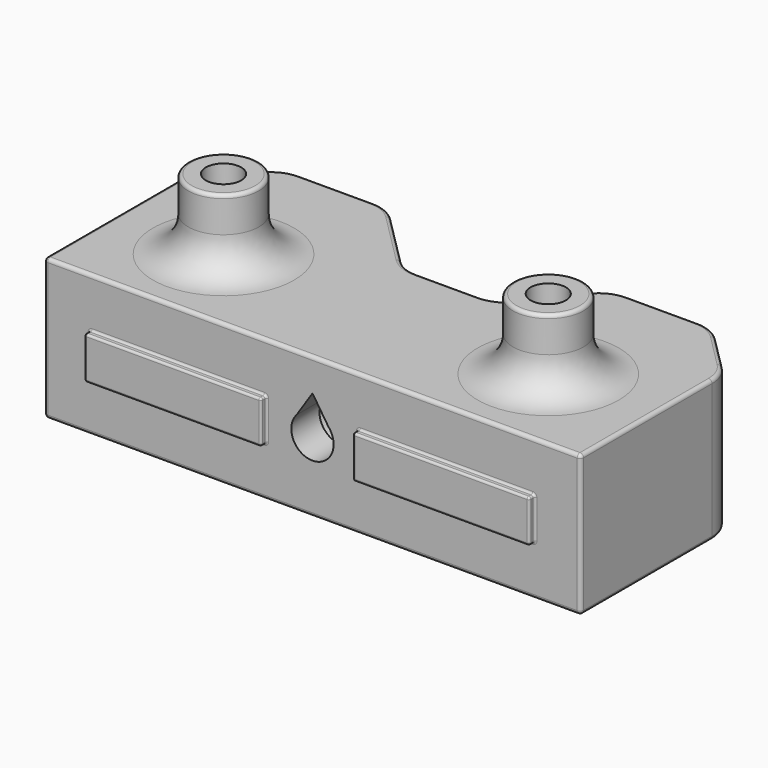
from build123d import *

# Parameters (mm, degrees)
SKETCH_R        = 5
PAD_DEPTH       = 20
SKETCH002_R     = 5
PAD001_DEPTH    = 30
SKETCH003_R     = 1.75
POCKET_DEPTH    = 10
SKETCH004_R     = 2.5
POCKET001_DEPTH = 5
POCKET002_START = -5
POCKET002_DEPTH = 21
POCKET003_DEPTH = 33
SKETCH007_W     = 25
SKETCH007_H     = 6
PAD002_DEPTH    = 1
FILLET_R        = 0.3
FILLET001_R     = 5
FILLET002_R     = 0.5


with BuildPart() as part:
    # Sketch → Pad (new body)
    with BuildSketch(Plane.XY):
        Polygon((0, 0), (0, 25.322968), (7.677032, 33), (22.322968, 33), (32.625859, 22.697109), (45.891826, 22.697109), (53.677032, 33), (68.322968, 33), (76, 25.322968), (76, 0), align=None)
        with Locations((15, 13)):
            Circle(SKETCH_R, mode=Mode.SUBTRACT)
        with Locations((61, 13)):
            Circle(SKETCH_R, mode=Mode.SUBTRACT)
    extrude(amount=PAD_DEPTH)

    # Sketch002 (on Face13 of Pad) → Pad001 (join)
    with BuildSketch(Plane(origin=(0, 0, 0), x_dir=(1, 0, 0), z_dir=(0, 0, -1))):
        with Locations((15, -13)):
            Circle(SKETCH002_R)
        with Locations((61, -13)):
            Circle(SKETCH002_R)
    extrude(amount=-PAD001_DEPTH)

    # Sketch003 (on Face15 of Pad001) → Pocket (cut)
    with BuildSketch(Plane.XY.offset(30)):
        with Locations((15, 13)):
            Circle(SKETCH003_R)
        with Locations((61, 13)):
            Circle(SKETCH003_R)
    extrude(amount=-POCKET_DEPTH, mode=Mode.SUBTRACT)

    # Sketch004 (on Face16 of Pocket) → Pocket001 (cut)
    with BuildSketch(Plane.XY.offset(30)):
        with Locations((15, 13)):
            Circle(SKETCH004_R)
        with Locations((61, 13)):
            Circle(SKETCH004_R)
    extrude(amount=-POCKET001_DEPTH, mode=Mode.SUBTRACT)

    # Sketch005 (on Face2 of Pocket001) → Pocket002 (cut)
    with BuildSketch(Plane.XZ.offset(POCKET002_START)):
        with BuildLine():
            ThreePointArc((34.34, 12.618091), (38, 5.5), (41.66, 12.618091))
            Line((41.66, 12.618091), (38, 18.3987))
            Line((38, 18.3987), (34.34, 12.618091))
        make_face()
    extrude(amount=-POCKET002_DEPTH, mode=Mode.SUBTRACT)

    # Sketch006 (on Face2 of Pocket002) → Pocket003 (cut)
    with BuildSketch(Plane.XZ):
        with BuildLine():
            ThreePointArc((35.763932, 12.000001), (38, 7.000001), (40.236068, 12.000001))
            Line((40.236068, 12.000001), (38, 15.400001))
            Line((38, 15.400001), (35.763932, 12.000001))
        make_face()
    extrude(amount=-POCKET003_DEPTH, mode=Mode.SUBTRACT)

    # Sketch007 (on Face2 of Pocket003) → Pad002 (join)
    with BuildSketch(Plane.XZ):
        with Locations((19, 10)):
            Rectangle(SKETCH007_W, SKETCH007_H)
        with Locations((57, 10)):
            Rectangle(SKETCH007_W, SKETCH007_H)
    extrude(amount=PAD002_DEPTH)

    # Fillet
    fillet_edges = [part.edges().sort_by_distance(p)[0] for p in [
        (19, -1, 13),
        (6.5, -1, 10),
        (19, -1, 7),
        (31.5, -1, 10),
        (44.5, -1, 10),
        (57, -1, 13),
        (69.5, -1, 10),
        (57, -1, 7),
        (6.5, 0, 10),
        (6.5, -0.5, 13),
        (6.5, -0.5, 7),
        (19, 0, 7),
        (19, 0, 13),
        (31.5, -0.5, 13),
        (31.5, 0, 10),
        (31.5, -0.5, 7),
        (44.5, -0.5, 13),
        (57, 0, 13),
        (69.5, -0.5, 13),
        (69.5, 0, 10),
        (69.5, -0.5, 7),
        (57, 0, 7),
        (44.5, -0.5, 7),
        (44.5, 0, 10),
    ]]
    fillet(fillet_edges, radius=FILLET_R)

    # Fillet001
    fillet001_edges = [part.edges().sort_by_distance(p)[0] for p in [
        (0, 25.322968, 10),
        (10, 13, 20),
        (56, 13, 20),
        (7.677032, 33, 10),
        (22.322968, 33, 10),
        (53.677032, 33, 10),
        (45.891826, 22.697109, 10),
        (68.322968, 33, 10),
        (32.625859, 22.697109, 10),
        (76, 25.322968, 10),
    ]]
    fillet(fillet001_edges, radius=FILLET001_R)

    # Fillet002
    fillet002_edges = [part.edges().sort_by_distance(p)[0] for p in [
        (56, 13, 30),
        (10, 13, 30),
        (0, 11.62595, 20),
        (0, 11.62595, 0),
        (38, 0, 20),
        (38, 0, 0),
        (0, 0, 10),
        (76, 0, 10),
    ]]
    fillet(fillet002_edges, radius=FILLET002_R)


solid = part.part
